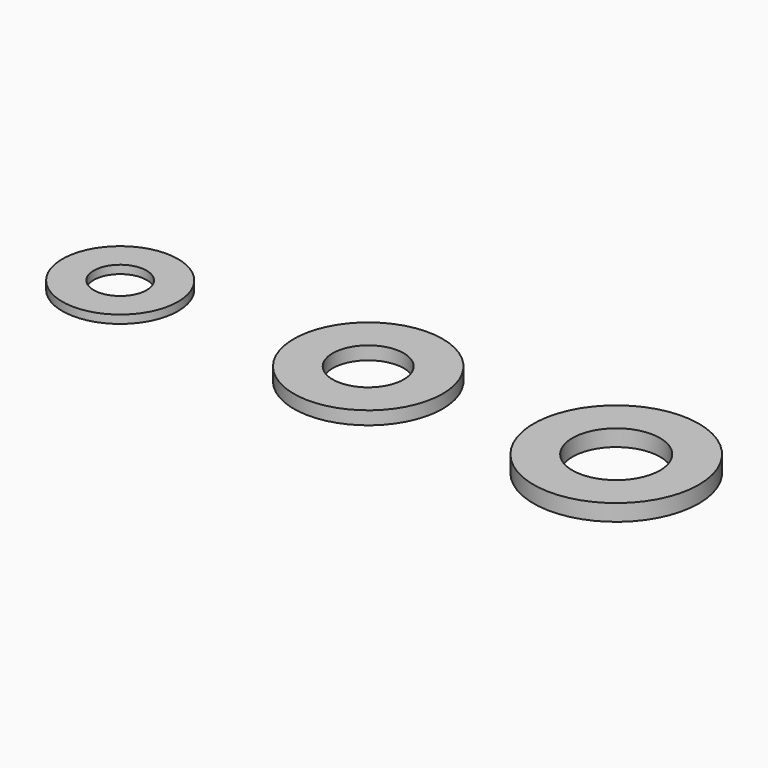
from build123d import *

# Parameters (mm, degrees)
F0_R     = 4.5
F0_R_2   = 2.15
F1_DEPTH = 0.8
F2_R     = 5
F2_R_2   = 2.65
F3_DEPTH = 1
F4_R     = 3.5
F4_R_2   = 1.6
F5_DEPTH = 0.5


with BuildPart() as f1:
    # F0 (on Top) → F1 (new body)
    with BuildSketch(Plane.XY):
        Circle(F0_R)
        Circle(F0_R_2, mode=Mode.SUBTRACT)
    extrude(amount=F1_DEPTH)


with BuildPart() as f3:
    # F2 (on Top) → F3 (new body)
    with BuildSketch(Plane.XY):
        Circle(F2_R)
        Circle(F2_R_2, mode=Mode.SUBTRACT)
    extrude(amount=F3_DEPTH)


with BuildPart() as f5:
    # F4 (on Top) → F5 (new body)
    with BuildSketch(Plane.XY):
        Circle(F4_R)
        Circle(F4_R_2, mode=Mode.SUBTRACT)
    extrude(amount=F5_DEPTH)


with BuildPart() as f1_1:
    # F6: moved
    add(f1.part.moved(Location((15, 0, 0))))


with BuildPart() as f3_1:
    # F7: moved
    add(f3.part.moved(Location((30, 0, 0))))


solid = Compound([f5.part, f1_1.part, f3_1.part])
